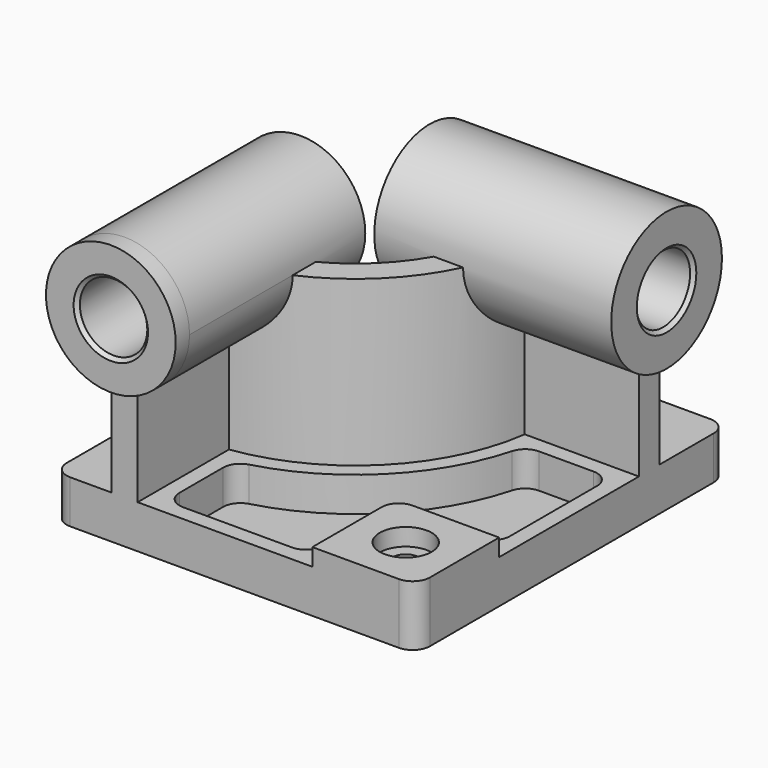
from build123d import *

# Parameters (mm, degrees)
F0_W            = 210
F0_H            = 225
F1_DEPTH        = 25
F3_DEPTH        = 95
F5_R            = 37.5
F6_DEPTH        = 10
F6_DEPTH_BACK   = 127
F7_R            = 40
F8_DEPTH        = 10
F8_DEPTH_BACK   = 127
F4_W            = 60
F4_H            = 60
F9_DEPTH        = 10
F10_R           = 10
F12_DEPTH       = 20
F14_D           = 15
F14_CBORE_D     = 30
F14_CBORE_DEPTH = 10
F15_R           = 10
F16_R           = 19.5
F17_DEPTH       = 235.001
F18_R           = 19.5
F19_DEPTH       = 220.001
F20_SIZE        = 2
F21_R           = 10


with BuildPart() as f1:
    # F0 (on Top) → F1 (new body)
    with BuildSketch(Plane.XY):
        Rectangle(F0_W, F0_H)
    extrude(amount=F1_DEPTH)

    # F2 (on face) → F3 (join)
    with BuildSketch(Plane.XY.offset(25)):
        with BuildLine():
            Line((-71, -32.5), (-71, -112.5))
            Line((-71, -112.5), (-56, -112.5))
            Line((-56, -112.5), (-56, -46.481817))
            ThreePointArc((-56, -46.481817), (7.488853, -14.988853), (38.981817, 48.5))
            Line((38.981817, 48.5), (105, 48.5))
            Line((105, 48.5), (105, 63.5))
            Line((105, 63.5), (25, 63.5))
            ThreePointArc((25, 63.5), (-3.117749, -4.382251), (-71, -32.5))
        make_face()
    extrude(amount=F3_DEPTH)

    # F5 (on face) → F6 (join, two sides)
    with BuildSketch(Plane.XZ.offset(112.5)) as f6_sk:
        with Locations((-63.5, 120)):
            Circle(F5_R)
    extrude(amount=F6_DEPTH)
    extrude(f6_sk.sketch, amount=-F6_DEPTH_BACK)

    # F7 (on face) → F8 (join, two sides)
    with BuildSketch(Plane.YZ.offset(105)) as f8_sk:
        with Locations((56, 120)):
            Circle(F7_R)
    extrude(amount=F8_DEPTH)
    extrude(f8_sk.sketch, amount=-F8_DEPTH_BACK)

    # F4 (on face) → F9 (join)
    with BuildSketch(Plane.XY.offset(25)):
        with Locations((75, -82.5)):
            Rectangle(F4_W, F4_H)
    extrude(amount=F9_DEPTH)

    # F10
    f10_edges = [f1.edges().sort_by_distance(p)[0] for p in [
        (45, -52.5, 30),
    ]]
    fillet(f10_edges, radius=F10_R)

    # F11 (on face) → F12 (cut)
    with BuildSketch(Plane.XY.offset(25)):
        with BuildLine():
            ThreePointArc((46.575508, 39.5), (13.852814, -21.352814), (-47, -54.075508))
            Line((-47, -54.075508), (-47, -103.5))
            Line((-47, -103.5), (36, -103.5))
            Line((36, -103.5), (36, -62.5))
            ThreePointArc((36, -62.5), (41.564971, -49.064971), (55, -43.5))
            Line((55, -43.5), (96, -43.5))
            Line((96, -43.5), (96, 39.5))
            Line((96, 39.5), (46.575508, 39.5))
        make_face()
    extrude(amount=-F12_DEPTH, mode=Mode.SUBTRACT)

    # F14 (through all)
    with Locations(Plane.XY.offset(35)):
        with Locations((75, -82.5)):
            CounterBoreHole(F14_D / 2, F14_CBORE_D / 2, F14_CBORE_DEPTH)

    # F15
    f15_edges = [f1.edges().sort_by_distance(p)[0] for p in [
        (-47, -54.075508, 15),
        (46.575508, 39.5, 15),
        (96, 39.5, 15),
        (96, -43.5, 15),
        (-47, -103.5, 15),
        (36, -103.5, 15),
    ]]
    fillet(f15_edges, radius=F15_R)

    # F16 (on face) → F17 (cut, through all)
    with BuildSketch(Plane.XZ.offset(122.5)):
        with Locations((-63.5, 120)):
            Circle(F16_R)
    extrude(amount=-F17_DEPTH, mode=Mode.SUBTRACT)

    # F18 (on face) → F19 (cut, through all)
    with BuildSketch(Plane.YZ.offset(115)):
        with Locations((56, 120)):
            Circle(F18_R)
    extrude(amount=-F19_DEPTH, mode=Mode.SUBTRACT)

    # F20
    f20_edges = [f1.edges().sort_by_distance(p)[0] for p in [
        (-83, -122.5, 120),
        (115, 36.5, 120),
        (-22, 36.5, 120),
        (-83, 14.5, 120),
    ]]
    chamfer(f20_edges, length=F20_SIZE)

    # F21
    f21_edges = [f1.edges().sort_by_distance(p)[0] for p in [
        (105, -112.5, 17.5),
        (-105, -112.5, 12.5),
        (105, 112.5, 12.5),
        (-105, 112.5, 12.5),
    ]]
    fillet(f21_edges, radius=F21_R)


solid = f1.part
